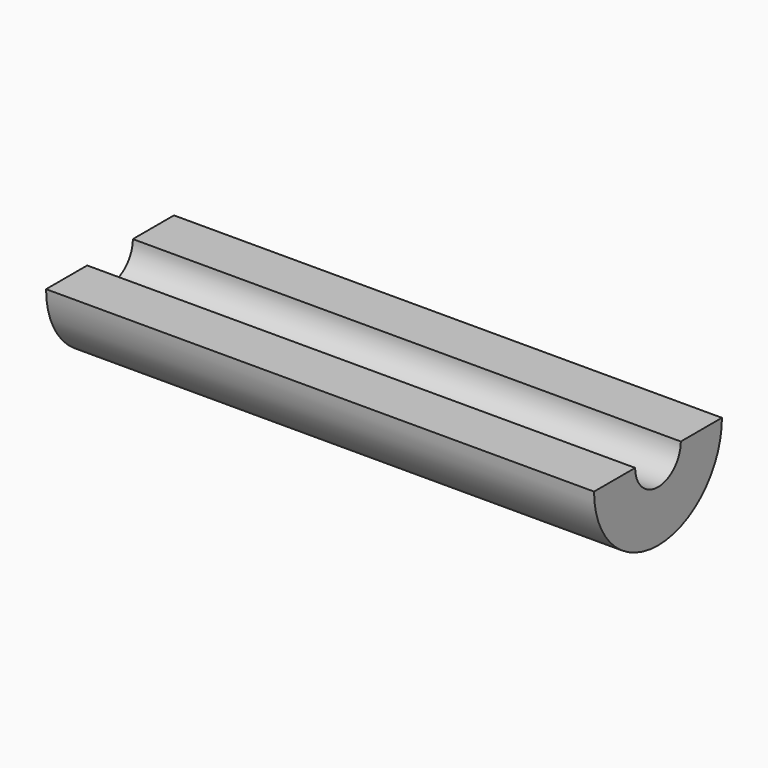
from build123d import *

# Parameters (mm, degrees)
F1_DEPTH = 304.8


with BuildPart() as f1:
    # F0 (on Right) → F1 (new body)
    with BuildSketch(Plane.YZ):
        with BuildLine():
            Line((-15.875, 0), (-44.45, 0))
            ThreePointArc((-44.45, 0), (0, -44.45), (44.45, 0))
            Line((44.45, 0), (15.875, 0))
            ThreePointArc((15.875, 0), (0, -15.875), (-15.875, 0))
        make_face()
    extrude(amount=F1_DEPTH)


solid = f1.part
